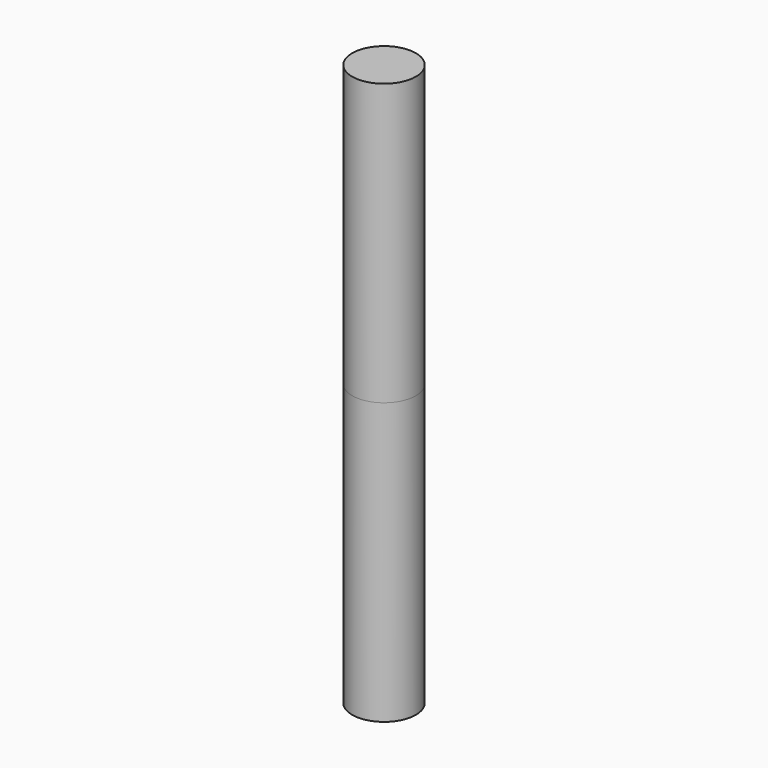
from build123d import *

# Parameters (mm, degrees)
CYLINDER_R        = 1.7
CYLINDER_DEPTH    = 15
CYLINDER001_R     = 1.7
CYLINDER001_DEPTH = 15


with BuildPart() as hole_3_4mm:
    # Cylinder → Cylinder (new body)
    with BuildSketch(Plane.XY):
        Circle(CYLINDER_R)
    extrude(amount=CYLINDER_DEPTH)


with BuildPart() as hole_3_4mm_rev:
    # Cylinder001 → Cylinder001 (new body)
    with BuildSketch(Plane(origin=(0, 0, 0), x_dir=(1, 0, 0), z_dir=(0, 0, -1))):
        Circle(CYLINDER001_R)
    extrude(amount=CYLINDER001_DEPTH)


solid = Compound([hole_3_4mm.part, hole_3_4mm_rev.part])
